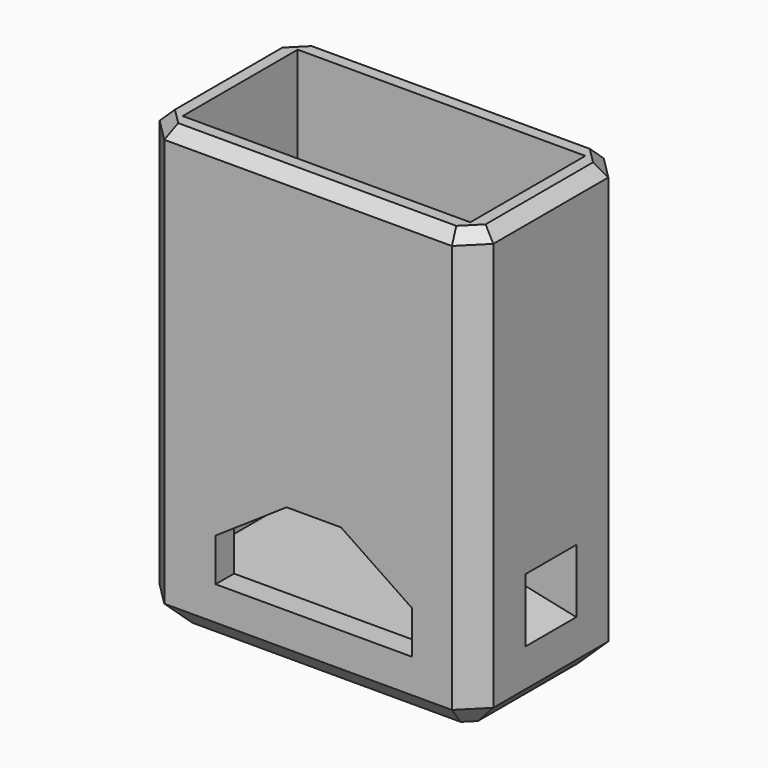
from build123d import *

# Parameters (mm, degrees)
F0_W      = 29
F0_H      = 16.5
F1_DEPTH  = 38.5
F2_T      = -2
F3_DEPTH  = 2.25
F4_SIZE   = 2
F5_SIZE   = 2
F6_SIZE   = 1
F8_DEPTH  = 16.501
F9_W      = 7.54
F9_H      = 7.25
F9_R      = 1.1
F10_DEPTH = 6.35
F13_W     = 5.538
F13_H     = 4.583
F11_W     = 5.538
F11_H     = 5.533


with BuildPart() as f1:
    # F0 (on Top) → F1 (new body)
    with BuildSketch(Plane.XY):
        with Locations((14.5, 8.25)):
            Rectangle(F0_W, F0_H)
    extrude(amount=F1_DEPTH)

    # F2
    f2_openings = [f1.faces().sort_by_distance(p)[0] for p in [
        (14.5, 8.25, 38.5),
    ]]
    offset(amount=F2_T, openings=f2_openings)

    # F3 (add): a face of the model
    f3_faces = [f1.faces().sort_by_distance(p)[0] for p in [
        (14.5, 8.25, 2),
    ]]
    extrude(f3_faces, amount=F3_DEPTH)

    # F4
    f4_edges = [f1.edges().sort_by_distance(p)[0] for p in [
        (29, 0, 19.25),
        (29, 16.5, 19.25),
        (0, 16.5, 19.25),
        (0, 0, 19.25),
    ]]
    chamfer(f4_edges, length=F4_SIZE)

    # F5
    f5_edges = [f1.edges().sort_by_distance(p)[0] for p in [
        (0, 8.25, 0),
        (1, 15.5, 0),
        (1, 1, 0),
        (14.5, 16.5, 0),
        (14.5, 0, 0),
        (28, 15.5, 0),
        (28, 1, 0),
        (29, 8.25, 0),
    ]]
    chamfer(f5_edges, length=F5_SIZE)

    # F6
    f6_edges = [f1.edges().sort_by_distance(p)[0] for p in [
        (14.5, 0, 38.5),
        (28, 1, 38.5),
        (29, 8.25, 38.5),
        (28, 15.5, 38.5),
        (14.5, 16.5, 38.5),
        (1, 15.5, 38.5),
        (0, 8.25, 38.5),
        (1, 1, 38.5),
    ]]
    chamfer(f6_edges, length=F6_SIZE)

    # F7 (on face) → F8 (cut, through all)
    with BuildSketch(Plane.XZ):
        Polygon((6.464, 8.664), (6.464, 4.94), (23.536, 4.94), (23.536, 8.664), (17.3645, 12.834), (12.6355, 12.834), align=None)
    extrude(amount=-F8_DEPTH, mode=Mode.SUBTRACT)

    # F9 (on face) → F10 (join)
    with BuildSketch(Plane.YZ.offset(29)):
        with Locations((8.25, 7.875)):
            Rectangle(F9_W, F9_H)
        with Locations((8.2431549785, 9)):
            Circle(F9_R, mode=Mode.SUBTRACT)
    extrude(amount=-F10_DEPTH)

    # F13 (on offset) → F14 section 0
    with BuildSketch(Plane.YZ.offset(24.55)):
        with Locations((8.25, 8.5135)):
            Rectangle(F13_W, F13_H)
    # F11 (on face) → F14 section 1
    with BuildSketch(Plane.YZ.offset(29)):
        with Locations((8.25, 8.0385)):
            Rectangle(F11_W, F11_H)
    loft(mode=Mode.SUBTRACT)


solid = f1.part
